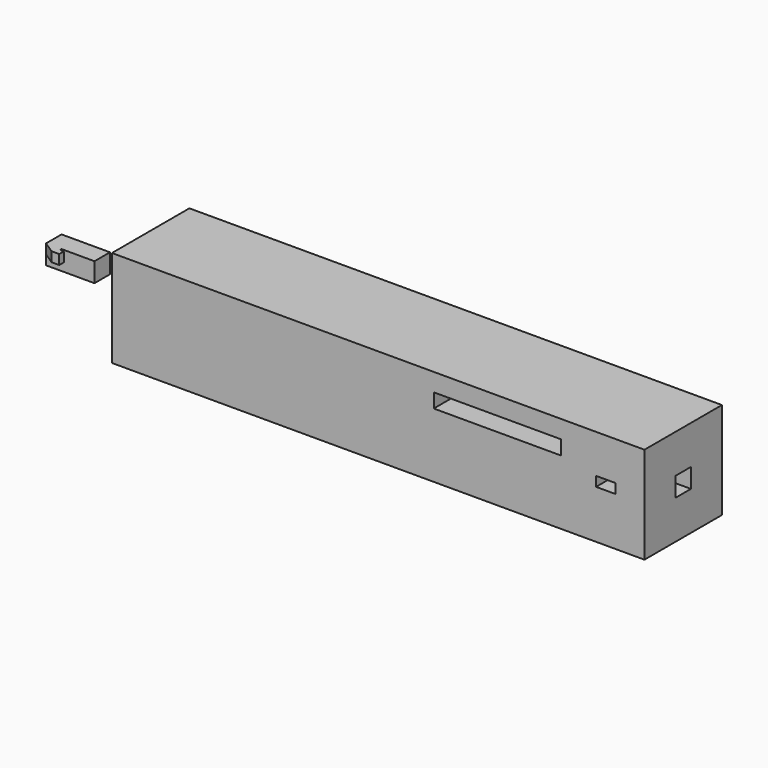
from build123d import *

# Parameters (mm, degrees)
F0_W      = 152.4
F0_H      = 25.4
F1_DEPTH  = 25.4
F2_W      = 5.08
F2_H      = 5.08
F3_DEPTH  = 12.7
F5_W      = 5.08
F5_H      = 5.08
F6_DEPTH  = 12.7
F8_DEPTH  = 2.54
F9_W      = 1.016
F9_H      = 0.508
F10_DEPTH = 25.4
F4_W      = 5.08
F4_H      = 2.54
F11_DEPTH = 25.4
F12_W     = 33.4452539682
F12_H     = 3.7508700043
F13_DEPTH = 25.4
F14_W     = 12.7
F14_H     = 25.4
F15_DEPTH = 25.4
F16_W     = 5.08
F16_H     = 5.08
F17_DEPTH = 0.254


with BuildPart() as f1:
    # F0 (on Top) → F1 (new body)
    with BuildSketch(Plane.XY):
        Rectangle(F0_W, F0_H)
        Rectangle(F0_W, F0_H)
    extrude(amount=F1_DEPTH)

    # F2 (on face) → F3 (cut)
    with BuildSketch(Plane.YZ.offset(76.2)):
        with Locations((0, 12.7)):
            Rectangle(F2_W, F2_H)
    extrude(amount=-F3_DEPTH, mode=Mode.SUBTRACT)

    # F5 (on face) → F6 (join)
    with BuildSketch(Plane(origin=(-76.2, 0, 0), x_dir=(0, -1, 0), z_dir=(-1, 0, 0))):
        with Locations((0, 12.7)):
            Rectangle(F5_W, F5_H)
    extrude(amount=F6_DEPTH)

    # F7 (on face) → F8 (join)
    with BuildSketch(Plane.XY.offset(15.24)):
        Polygon((-83.8287068658, -2.54), (-88.9, -2.54), (-85.8607068658, -4.572), (-83.8287068658, -4.572), align=None)
    extrude(amount=-F8_DEPTH)

    # F9 (on face) → F10 (cut)
    with BuildSketch(Plane.XY.offset(15.24)):
        with Locations((-84.3367068658, -2.794)):
            Rectangle(F9_W, F9_H)
    extrude(amount=-F10_DEPTH, mode=Mode.SUBTRACT)

    # F4 (on face) → F11 (cut)
    with BuildSketch(Plane(origin=(0, -2.54, 0), x_dir=(-1, 0, 0), z_dir=(0, 1, 0))):
        with Locations((-66.04, 13.97)):
            Rectangle(F4_W, F4_H)
    extrude(amount=-F11_DEPTH, mode=Mode.SUBTRACT)

    # F12 (on face) → F13 (cut)
    with BuildSketch(Plane.XZ.offset(12.7)):
        with Locations((37.6476235688, 18.8155183569)):
            Rectangle(F12_W, F12_H)
    extrude(amount=-F13_DEPTH, mode=Mode.SUBTRACT)

    # F14 (on face) → F15 (cut)
    with BuildSketch(Plane.XY.offset(25.4)):
        with Locations((-69.85, 0)):
            Rectangle(F14_W, F14_H)
    extrude(amount=-F15_DEPTH, mode=Mode.SUBTRACT)

    # F16 (on face) → F17 (join)
    with BuildSketch(Plane(origin=(-63.5, 0, 0), x_dir=(0, -1, 0), z_dir=(-1, 0, 0))):
        with Locations((0, 12.7)):
            Rectangle(F16_W, F16_H)
    extrude(amount=F17_DEPTH)


solid = f1.part
